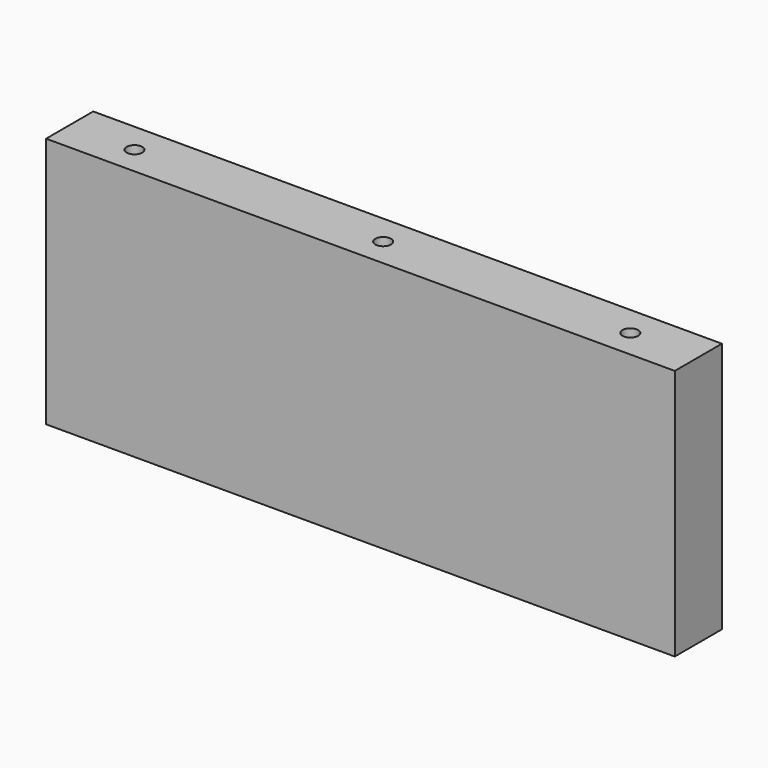
from build123d import *

# Parameters (mm, degrees)
F0_W     = 101.6
F0_H     = 40.64
F1_DEPTH = 9.525
F2_R     = 1.27
F3_DEPTH = 40.641


with BuildPart() as f1:
    # F0 (on Front) → F1 (new body)
    with BuildSketch(Plane.XZ):
        Rectangle(F0_W, F0_H)
    extrude(amount=-F1_DEPTH)

    # F2 (on face) → F3 (cut, through all)
    with BuildSketch(Plane(origin=(0, 0, -20.32), x_dir=(1, 0, 0), z_dir=(0, 0, -1))):
        with Locations((-40.20207, -4.601012)):
            Circle(F2_R)
        with Locations((0, -4.601012)):
            Circle(F2_R)
        with Locations((39.93931, -4.601012)):
            Circle(F2_R)
    extrude(amount=-F3_DEPTH, mode=Mode.SUBTRACT)


solid = f1.part
